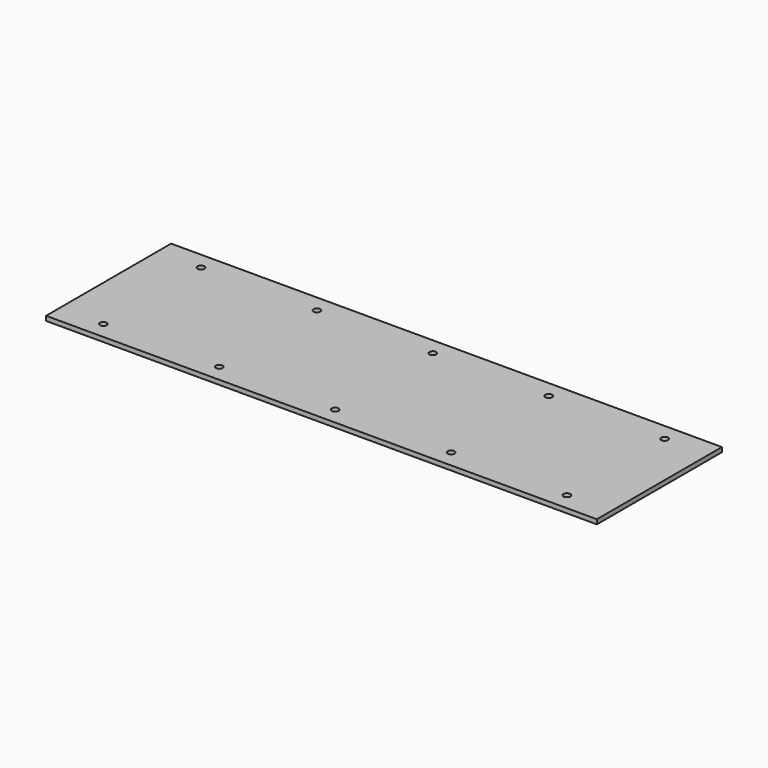
from build123d import *

# Parameters (mm, degrees)
F0_W     = 241.39906
F0_H     = 68.5
F1_DEPTH = 2
F2_R     = 1.5
F3_DEPTH = 2.001


with BuildPart() as f1:
    # F0 (on Top) → F1 (new body)
    with BuildSketch(Plane.XY):
        with Locations((18.637111, -25.228894)):
            Rectangle(F0_W, F0_H)
    extrude(amount=F1_DEPTH)

    # F2 (on face) → F3 (cut, through all)
    with BuildSketch(Plane.XY.offset(2)):
        with BuildLine():
            Line((-82.176834, 2.79865), (-82.176834, 1.521106))
            Line((-82.176834, 1.521106), (-81.462889, 1.521106))
            ThreePointArc((-81.462889, 1.521106), (-81.653484, 2.252857), (-82.176834, 2.79865))
        make_face()
        with BuildLine():
            Line((-81.462889, 1.521106), (-82.176834, 1.521106))
            Line((-82.176834, 1.521106), (-84.462889, 1.521106))
            ThreePointArc((-84.462889, 1.521106), (-82.962889, 0.021106), (-81.462889, 1.521106))
        make_face()
        with BuildLine():
            Line((-84.462889, 1.521106), (-82.176834, 1.521106))
            Line((-82.176834, 1.521106), (-82.176834, 2.79865))
            ThreePointArc((-82.176834, 2.79865), (-83.69464, 2.830511), (-84.462889, 1.521106))
        make_face()
        with BuildLine():
            ThreePointArc((70.937111, 1.521106), (69.437111, 3.021106), (67.937111, 1.521106))
            Line((67.937111, 1.521106), (70.937111, 1.521106))
        make_face()
        with BuildLine():
            Line((70.937111, 1.521106), (67.937111, 1.521106))
            ThreePointArc((67.937111, 1.521106), (69.437111, 0.021106), (70.937111, 1.521106))
        make_face()
        with BuildLine():
            ThreePointArc((20.137111, 1.521106), (18.637111, 3.021106), (17.137111, 1.521106))
            Line((17.137111, 1.521106), (20.137111, 1.521106))
        make_face()
        with BuildLine():
            Line((20.137111, 1.521106), (17.137111, 1.521106))
            ThreePointArc((17.137111, 1.521106), (18.637111, 0.021106), (20.137111, 1.521106))
        make_face()
        with BuildLine():
            ThreePointArc((-30.662889, 1.521106), (-32.162889, 3.021106), (-33.662889, 1.521106))
            Line((-33.662889, 1.521106), (-30.662889, 1.521106))
        make_face()
        with BuildLine():
            Line((-30.662889, 1.521106), (-33.662889, 1.521106))
            ThreePointArc((-33.662889, 1.521106), (-32.162889, 0.021106), (-30.662889, 1.521106))
        make_face()
        with Locations((120.237111, 1.521106)):
            Circle(F2_R)
        with Locations((120.237111, -51.978894)):
            Circle(F2_R)
        with Locations((69.437111, -51.978894)):
            Circle(F2_R)
        with Locations((18.637111, -51.978894)):
            Circle(F2_R)
        with Locations((-32.162889, -51.978894)):
            Circle(F2_R)
        with Locations((-82.962889, -51.978894)):
            Circle(F2_R)
    extrude(amount=-F3_DEPTH, mode=Mode.SUBTRACT)


solid = f1.part
